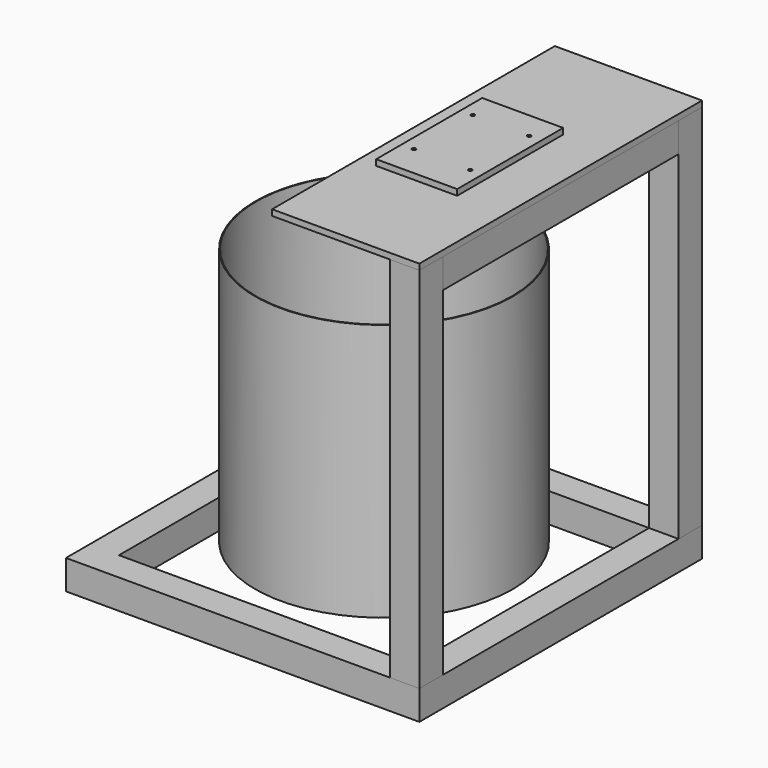
from build123d import *

# Parameters (mm, degrees)
F0_W      = 400
F0_H      = 40
F0_W_2    = 40
F0_H_2    = 400
F1_DEPTH  = 40
F2_DEPTH  = 500
F4_W      = 40
F4_H      = 400
F5_DEPTH  = 40
F6_R      = 175
F7_DEPTH  = 350
F8_T      = -1
F9_DEPTH  = 8
F10_W     = 110
F10_H     = 180
F10_R     = 2.5
F11_DEPTH = 8


with BuildPart() as f1:
    # F0 (on Top) → F1 (new body)
    with BuildSketch(Plane.XY):
        with Locations((0, 220)):
            Rectangle(F0_W, F0_H)
        with Locations((220, 220)):
            Rectangle(F0_W_2, F0_H)
        with Locations((220, 0)):
            Rectangle(F0_W_2, F0_H_2)
        with Locations((220, -220)):
            Rectangle(F0_W_2, F0_H)
        with Locations((-220, 0)):
            Rectangle(F0_W_2, F0_H_2)
        with Locations((-220, 220)):
            Rectangle(F0_W_2, F0_H)
        Polygon((200, -240), (200, -200), (-200, -200), (-240, -200), (-240, -240), (-200, -240), align=None)
    extrude(amount=-F1_DEPTH)


with BuildPart() as f2:
    # F0 (on Top) → F2 (new body)
    with BuildSketch(Plane.XY):
        with Locations((220, 220)):
            Rectangle(F0_W_2, F0_H)
    extrude(amount=F2_DEPTH)


with BuildPart() as f2b:
    # F0 (on Top) → F2, piece 2 (new body)
    with BuildSketch(Plane.XY):
        with Locations((220, -220)):
            Rectangle(F0_W_2, F0_H)
    extrude(amount=F2_DEPTH)


with BuildPart() as f5:
    # F4 (on plane+point) → F5 (new body)
    with BuildSketch(Plane.XY.offset(500)):
        with Locations((220, 0)):
            Rectangle(F4_W, F4_H)
    extrude(amount=-F5_DEPTH)


with BuildPart() as f7:
    # F6 (on Top) → F7 (new body)
    with BuildSketch(Plane.XY):
        Circle(F6_R)
    extrude(amount=F7_DEPTH)

    # F8
    f8_openings = [f7.faces().sort_by_distance(p)[0] for p in [
        (0, 0, 350),
    ]]
    offset(amount=F8_T, openings=f8_openings)


with BuildPart() as f9:
    # F4 (on plane+point) → F9 (new body)
    with BuildSketch(Plane.XY.offset(500)):
        Polygon((200, 200), (240, 200), (240, 240), (40, 240), (40, -240), (240, -240), (240, -200), (200, -200), align=None)
        with Locations((220, 0)):
            Rectangle(F4_W, F4_H)
    extrude(amount=F9_DEPTH)


with BuildPart() as f11:
    # F10 (on face) → F11 (new body)
    with BuildSketch(Plane.XY.offset(508)):
        with Locations((118.95, -3.2155030966)):
            Rectangle(F10_W, F10_H)
        with Locations((80.7, -50)):
            Circle(F10_R, mode=Mode.SUBTRACT)
        with Locations((157.2, -50)):
            Circle(F10_R, mode=Mode.SUBTRACT)
        with Locations((80.7, 50)):
            Circle(F10_R, mode=Mode.SUBTRACT)
        with Locations((157.2, 50)):
            Circle(F10_R, mode=Mode.SUBTRACT)
    extrude(amount=F11_DEPTH)


solid = Compound([f1.part, f2.part, f2b.part, f5.part, f7.part, f9.part, f11.part])
